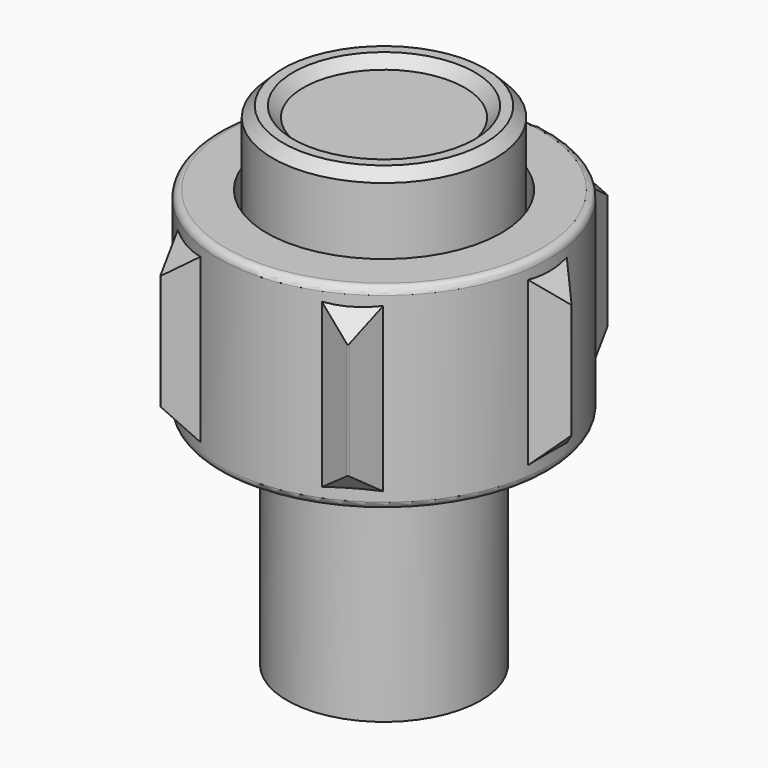
from build123d import *

# Parameters (mm, degrees)
PAD001_DEPTH      = 3
PAD001_DEPTH_BACK = 3
PAD_DEPTH         = 16
ARRAY_COUNT       = 6


with BuildPart() as revolution_button:
    # Sketch001 → Revolution001 (revolve)
    with BuildSketch(Plane.XZ):
        Polygon((0, 47.25), (0, 39), (4, 39), (4, 37), (10.9, 37), (10.9, 47.25), (9.9, 48.25), (8.9, 48.25), (7.9, 47.25), align=None)
    revolve(axis=Axis((0, 0, 0), (0, 0, 1)))


with BuildPart() as revolution_outer:
    # Sketch → Revolution (revolve)
    with BuildSketch(Plane.XZ):
        with BuildLine():
            Line((9.5, 0), (9.5, 18.55))
            ThreePointArc((12.7, 21.75), (10.437258, 20.812742), (9.5, 18.55))
            Line((12.7, 21.75), (15.5, 21.75))
            ThreePointArc((15.5, 21.75), (15.994975, 21.955025), (16.2, 22.45))
            Line((16.2, 22.45), (16.2, 40.3))
            ThreePointArc((16.2, 40.3), (15.994975, 40.794975), (15.5, 41))
            Line((11.5, 41), (15.5, 41))
            Line((11.5, 41), (11.5, 33))
            Line((11.5, 33), (4, 33))
            Line((4, 33), (4, 0))
            Line((4, 0), (9.5, 0))
        make_face()
    revolve(axis=Axis((0, 0, 0), (0, 0, 1)))


with BuildPart() as pad_grip_draft:
    # Sketch003 → Pad001 (new body, two sides)
    with BuildSketch(Plane.XZ) as pad001_sk:
        Polygon((16.025, 39.4), (18.425, 37), (18.425, 39.4), align=None)
        Polygon((16.025, 23.4), (18.425, 25.8), (18.425, 23.4), align=None)
    extrude(amount=PAD001_DEPTH)
    extrude(pad001_sk.sketch, amount=-PAD001_DEPTH_BACK)


with BuildPart() as fusion_knob:
    # Sketch002 → Pad (new body)
    with BuildSketch(Plane.XY.offset(23.4)):
        with BuildLine():
            Line((16.024961, 2.375), (18.329251, 0.07071))
            ThreePointArc((18.329251, -0.07071), (18.35854, 0), (18.329251, 0.07071))
            Line((18.329251, -0.07071), (16.024961, -2.375))
            Line((16.024961, 2.375), (16.024961, -2.375))
        make_face()
    extrude(amount=PAD_DEPTH)

    # Cut: cut Pad (grip draft)
    add(pad_grip_draft.part, mode=Mode.SUBTRACT)

    # Array: Fusion (knob) ×6 about axis
    array_axis = Axis((0, 0, 0), (0, 0, 1))


with BuildPart() as fusion_knob_1:
    add(fusion_knob.part)
    for i in range(1, ARRAY_COUNT):
        add(fusion_knob.part.rotate(array_axis, i * 360 / ARRAY_COUNT))

    # Fusion: union Revolution (outer)
    add(revolution_outer.part)


solid = Compound([revolution_button.part, fusion_knob_1.part])
